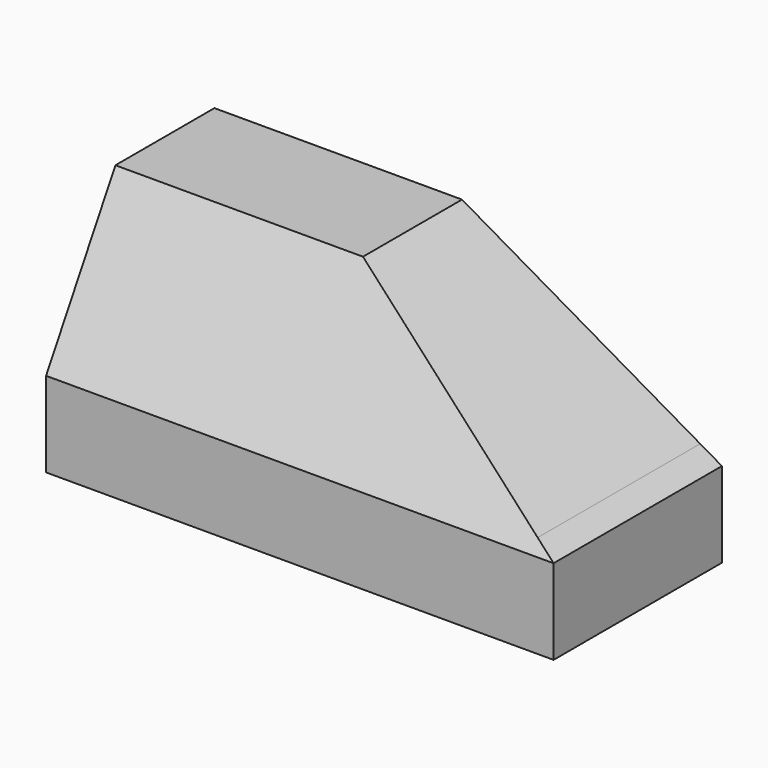
from build123d import *

# Parameters (mm, degrees)
F1_DEPTH = 53.975
F3_DEPTH = 130.176


with BuildPart() as f1:
    # F0 (on Front) → F1 (new body)
    with BuildSketch(Plane.XZ):
        Polygon((-130.175, 0), (0, 0), (0, 21.8301708018), (-5.5739317977, 25.0482818256), (-66.675, 60.325), (-130.175, 60.325), align=None)
    extrude(amount=F1_DEPTH)

    # F2 (on face) → F3 (cut, through all)
    with BuildSketch(Plane(origin=(-130.175, 0, 0), x_dir=(0, -1, 0), z_dir=(-1, 0, 0))):
        Polygon((31.7433195945, 60.325), (53.975, 21.8186), (53.975, 60.325), align=None)
    extrude(amount=-F3_DEPTH, mode=Mode.SUBTRACT)


solid = f1.part
